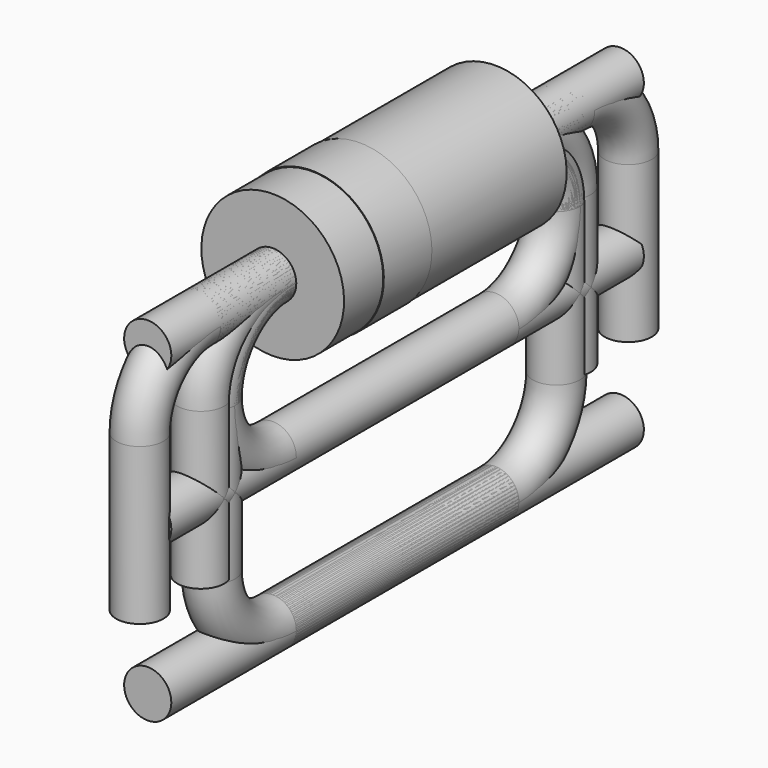
from build123d import *

# Parameters (mm, degrees)
SKETCH_R                = 1.1875
PAD_DEPTH               = 2.315
SKETCH001_R             = 1.1975
PAD001_DEPTH            = 0.5
SKETCH003_R             = 0.3925
SKETCH005_R             = 0.3925
SKETCH007_R             = 0.3925
SKETCH009_R             = 0.3925
SKETCH011_R             = 0.3925
BODY006_PLACEMENT_ANGLE = 180
SKETCH013_R             = 0.3925
BODY007_PLACEMENT_ANGLE = 180


with BuildPart() as body:
    # Sketch → Pad (new body, symmetric)
    with BuildSketch(Plane(origin=(0, 0, 0), x_dir=(0, 0, -1), z_dir=(0, -1, 0))):
        Circle(SKETCH_R)
    extrude(amount=PAD_DEPTH, both=True)


with BuildPart() as band:
    # Sketch001 → Pad001 (new body, symmetric)
    with BuildSketch(Plane(origin=(0, -1, 0), x_dir=(0, 0, -1), z_dir=(0, -1, 0))):
        Circle(SKETCH001_R)
    extrude(amount=PAD001_DEPTH, both=True)


with BuildPart() as body002:
    # AdditivePipe: sweep along a path in Sketch002
    with BuildLine(Plane.YZ) as additivepipe_path:
        Line((-3.81, -3.7875), (-3.81, -1.1875))
        ThreePointArc((-3.81, -1.1875), (-3.462189, -0.347811), (-2.6225, 0))
        Line((-2.6225, 0), (2.6225, 0))
        ThreePointArc((2.6225, 0), (3.462189, -0.347811), (3.81, -1.1875))
        Line((3.81, -1.1875), (3.81, -3.7875))
    # Sketch003 → AdditivePipe (sweep)
    with BuildSketch(Plane(origin=(0, 0, 0), x_dir=(0, 0, -1), z_dir=(0, -1, 0))):
        Circle(SKETCH003_R)
    sweep(path=additivepipe_path.line)


with BuildPart() as body003:
    # AdditivePipe001: sweep along a path in Sketch004
    with BuildLine(Plane.YZ) as additivepipe001_path:
        Line((-5.08, -3.7875), (-5.08, -1.1875))
        ThreePointArc((-5.08, -1.1875), (-4.732189, -0.347811), (-3.8925, 0))
        Line((-3.8925, 0), (3.8925, 0))
        ThreePointArc((3.8925, 0), (4.732189, -0.347811), (5.08, -1.1875))
        Line((5.08, -1.1875), (5.08, -3.7875))
    # Sketch005 → AdditivePipe001 (sweep)
    with BuildSketch(Plane(origin=(0, 0, 0), x_dir=(0, 0, -1), z_dir=(0, -1, 0))):
        Circle(SKETCH005_R)
    sweep(path=additivepipe001_path.line)


with BuildPart() as body004:
    # AdditivePipe002: sweep along a path in Sketch006
    with BuildLine(Plane.YZ) as additivepipe002_path:
        Line((4.915, 0), (-2.315, 0))
        ThreePointArc((-2.315, 0), (-3.585, -1.27), (-2.315, -2.54))
        Line((-2.315, -2.54), (4.915, -2.54))
    # Sketch007 → AdditivePipe002 (sweep)
    with BuildSketch(Plane(origin=(0, 0, 0), x_dir=(0, 0, -1), z_dir=(0, -1, 0))):
        Circle(SKETCH007_R)
    sweep(path=additivepipe002_path.line)


with BuildPart() as body005:
    # AdditivePipe003: sweep along a path in Sketch008
    with BuildLine(Plane.YZ) as additivepipe003_path:
        Line((4.915, 0), (-2.315, 0))
        ThreePointArc((-2.315, 0), (-3.213026, -0.371974), (-3.585, -1.27))
        Line((-3.585, -1.27), (-3.585, -3.81))
        ThreePointArc((-3.585, -3.81), (-3.213026, -4.708026), (-2.315, -5.08))
        Line((-2.315, -5.08), (4.915, -5.08))
    # Sketch009 → AdditivePipe003 (sweep)
    with BuildSketch(Plane(origin=(0, 0, 0), x_dir=(0, 0, -1), z_dir=(0, -1, 0))):
        Circle(SKETCH009_R)
    sweep(path=additivepipe003_path.line)


with BuildPart() as body006:
    # AdditivePipe004: sweep along a path in Sketch010
    with BuildLine(Plane.YZ) as additivepipe004_path:
        Line((4.915, 0), (-2.315, 0))
        ThreePointArc((-2.315, 0), (-3.585, -1.27), (-2.315, -2.54))
        Line((-2.315, -2.54), (4.915, -2.54))
    # Sketch011 → AdditivePipe004 (sweep)
    with BuildSketch(Plane(origin=(0, 0, 0), x_dir=(0, 0, -1), z_dir=(0, -1, 0))):
        Circle(SKETCH011_R)
    sweep(path=additivepipe004_path.line)


with BuildPart() as body006_1:
    # Body006 placement: moved
    add(body006.part.rotate(Axis((0, 0, 0), (0, 0, 1)), BODY006_PLACEMENT_ANGLE))


with BuildPart() as body007:
    # AdditivePipe005: sweep along a path in Sketch012
    with BuildLine(Plane.YZ) as additivepipe005_path:
        Line((4.915, 0), (-2.315, 0))
        ThreePointArc((-2.315, 0), (-3.213026, -0.371974), (-3.585, -1.27))
        Line((-3.585, -1.27), (-3.585, -3.81))
        ThreePointArc((-3.585, -3.81), (-3.213026, -4.708026), (-2.315, -5.08))
        Line((-2.315, -5.08), (4.915, -5.08))
    # Sketch013 → AdditivePipe005 (sweep)
    with BuildSketch(Plane(origin=(0, 0, 0), x_dir=(0, 0, -1), z_dir=(0, -1, 0))):
        Circle(SKETCH013_R)
    sweep(path=additivepipe005_path.line)


with BuildPart() as body007_1:
    # Body007 placement: moved
    add(body007.part.rotate(Axis((0, 0, 0), (0, 0, 1)), BODY007_PLACEMENT_ANGLE))


solid = Compound([body.part, band.part, body002.part, body003.part, body004.part, body005.part, body006_1.part, body007_1.part])
